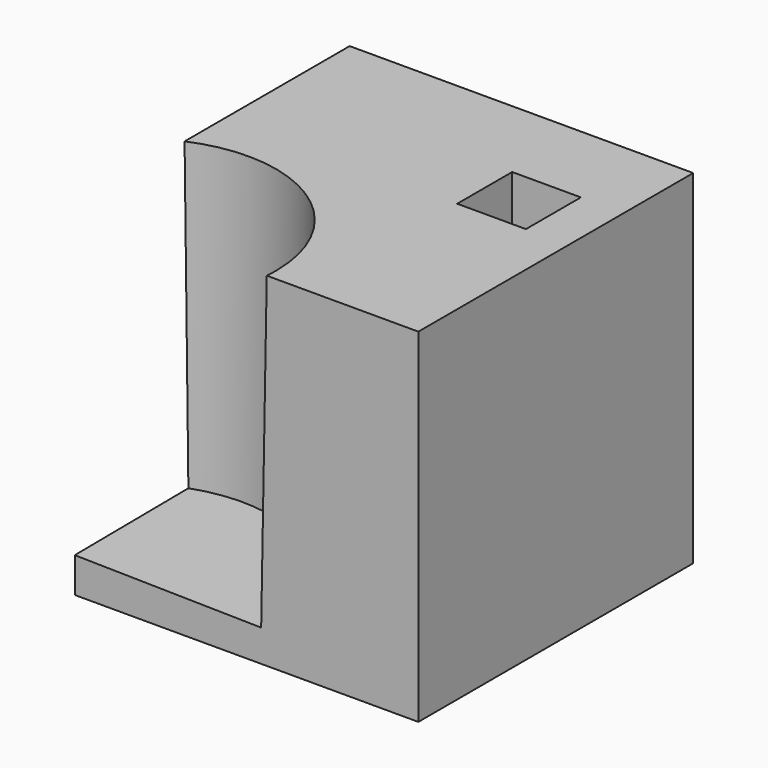
from build123d import *

# Parameters (mm, degrees)
BOX001_W                 = 2
BOX001_H                 = 2
BOX001_DEPTH             = 10
CYLINDER_R               = 4
CYLINDER_DEPTH           = 10
CYLINDER_ROLL_ANGLE      = 0.497253
CYLINDER_PITCH_ANGLE     = 0.973542
CYLINDER_PLACEMENT_ANGLE = 0.982028
BOX_W                    = 10
BOX_H                    = 10
BOX_DEPTH                = 10


with BuildPart() as cube001:
    # Box001 → Box001 (new body)
    with BuildSketch(Plane(origin=(23.730946, -3.203472, 0), x_dir=(1, 0, 0), z_dir=(0, 0, 1))):
        with Locations((1, 1)):
            Rectangle(BOX001_W, BOX001_H)
    extrude(amount=BOX001_DEPTH)


with BuildPart() as cylinder:
    # Cylinder → Cylinder (new body)
    with BuildSketch(Plane.XY):
        Circle(CYLINDER_R)
    extrude(amount=CYLINDER_DEPTH)


with BuildPart() as cylinder_1:
    # Cylinder roll: moved
    add(cylinder.part.rotate(Axis((0, 0, 0), (1, 0, 0)), CYLINDER_ROLL_ANGLE))


with BuildPart() as cylinder_2:
    # Cylinder pitch: moved
    add(cylinder_1.part.rotate(Axis((0, 0, 0), (0, 1, 0)), CYLINDER_PITCH_ANGLE))


with BuildPart() as cylinder_3:
    # Cylinder placement: moved
    add(cylinder_2.part.moved(Location((1, 1, 1))).rotate(Axis((1, 1, 1), (0, 0, 1)), CYLINDER_PLACEMENT_ANGLE))


with BuildPart() as cut001:
    # Box → Box (new body)
    with BuildSketch(Plane(origin=(-0.44599, 0.596456, 0), x_dir=(1, 0, 0), z_dir=(0, 0, 1))):
        with Locations((5, 5)):
            Rectangle(BOX_W, BOX_H)
    extrude(amount=BOX_DEPTH)

    # Cut: cut Cylinder
    add(cylinder_3.part, mode=Mode.SUBTRACT)


with BuildPart() as cut001_1:
    # Cut placement: moved
    add(cut001.part.moved(Location((17.420948, -9.267728, 0))))

    # Cut001: cut Cube001
    add(cube001.part, mode=Mode.SUBTRACT)


solid = cut001_1.part
